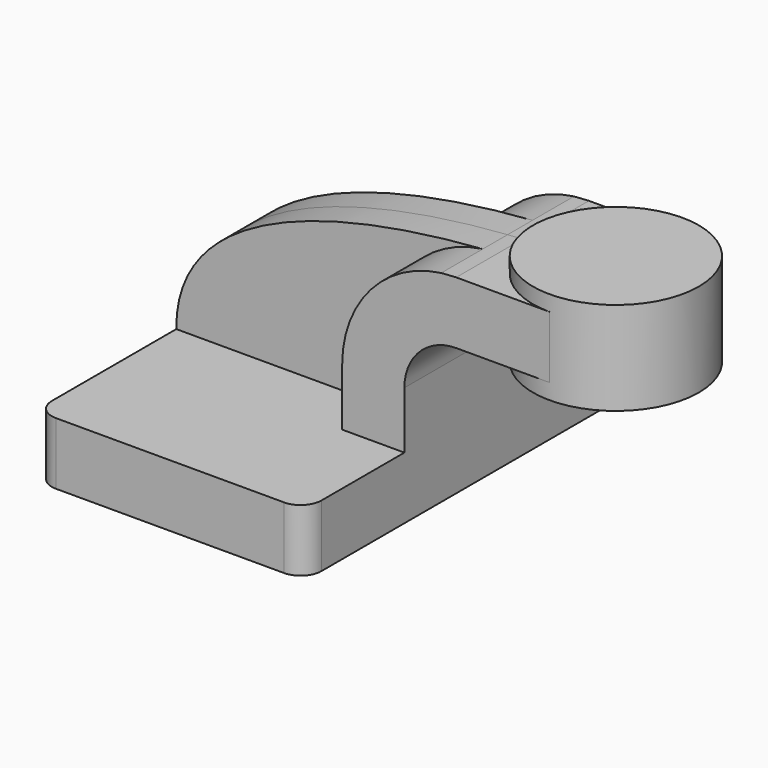
from build123d import *

# Parameters (mm, degrees)
F1_DEPTH = 63.5
F2_DEPTH = 25.4
F0_W     = 25.4
F0_H     = 19.05
F3_DEPTH = 25.4
F4_DEPTH = 9.525
F6_R     = 6.35


with BuildPart() as f1:
    # F0 (on Front) → F1 (new body, symmetric)
    with BuildSketch(Plane.XZ):
        Polygon((-41.275, 9.525), (-41.275, -9.525), (41.275, -9.525), (41.275, 9.525), (22.225, 9.525), align=None)
    extrude(amount=F1_DEPTH, both=True)

    # F0 (on Front) → F2 (join, symmetric)
    with BuildSketch(Plane.XZ):
        with BuildLine():
            Line((22.225, 9.525), (41.275, 9.525))
            Line((41.275, 9.525), (41.275, 27.0002))
            ThreePointArc((41.275, 27.0002), (45.9246798487, 38.2255201513), (57.15, 42.8752))
            Line((57.15, 42.8752), (60.325, 42.8752))
            Line((60.325, 42.8752), (60.325, 61.9252))
            Line((60.325, 61.9252), (57.15, 61.9252))
            add(Edge.make_bspline(
                [(52.5691994145, 61.6234853871), (54.1342180077, 61.7382540245), (55.6631122744, 61.8383375559), (57.15, 61.9252)],
                knots=[106.979089872, 106.979089872, 106.979089872, 106.979089872, 111.5045361635, 111.5045361635, 111.5045361635, 111.5045361635], degree=3))
            ThreePointArc((52.5691994145, 61.6234853871), (30.8846227378, 50.0194437381), (22.225, 27.0002))
            Line((22.225, 27.0002), (22.225, 9.525))
        make_face()
    extrude(amount=F2_DEPTH, both=True)

    # F0 (on Front) → F3 (join, symmetric)
    with BuildSketch(Plane.XZ):
        with Locations((73.025, 52.4002)):
            Rectangle(F0_W, F0_H)
    extrude(amount=F3_DEPTH, both=True)

    # F0 (on Front) → F4 (join, symmetric)
    with BuildSketch(Plane.XZ):
        with BuildLine():
            add(Edge.make_bspline(
                [(-41.275, 9.525), (-41.6103147377, 47.9909608726), (15.5730107622, 58.9104171977), (52.5691994145, 61.6234853871)],
                knots=[0, 0, 0, 0, 106.979089872, 106.979089872, 106.979089872, 106.979089872], degree=3))
            Line((-41.275, 9.525), (22.225, 9.525))
            Line((22.225, 9.525), (22.225, 27.0002))
            ThreePointArc((22.225, 27.0002), (30.8846227378, 50.0194437381), (52.5691994145, 61.6234853871))
        make_face()
    extrude(amount=F4_DEPTH, both=True)

    # F0 (on Front) → F5 (revolve)
    with BuildSketch(Plane.XZ):
        Polygon((85.725, 66.675), (85.725, 61.9252), (85.725, 42.8752), (85.725, 38.1), (111.125, 38.1), (111.125, 66.675), align=None)
    revolve(axis=Axis((85.725, 0, 52.3875), (0, 0, 1)))

    # F6
    f6_edges = [f1.edges().sort_by_distance(p)[0] for p in [
        (-41.275, -63.5, 0),
        (41.275, -63.5, 0),
        (41.275, 63.5, 0),
        (-41.275, 63.5, 0),
    ]]
    fillet(f6_edges, radius=F6_R)


solid = f1.part
